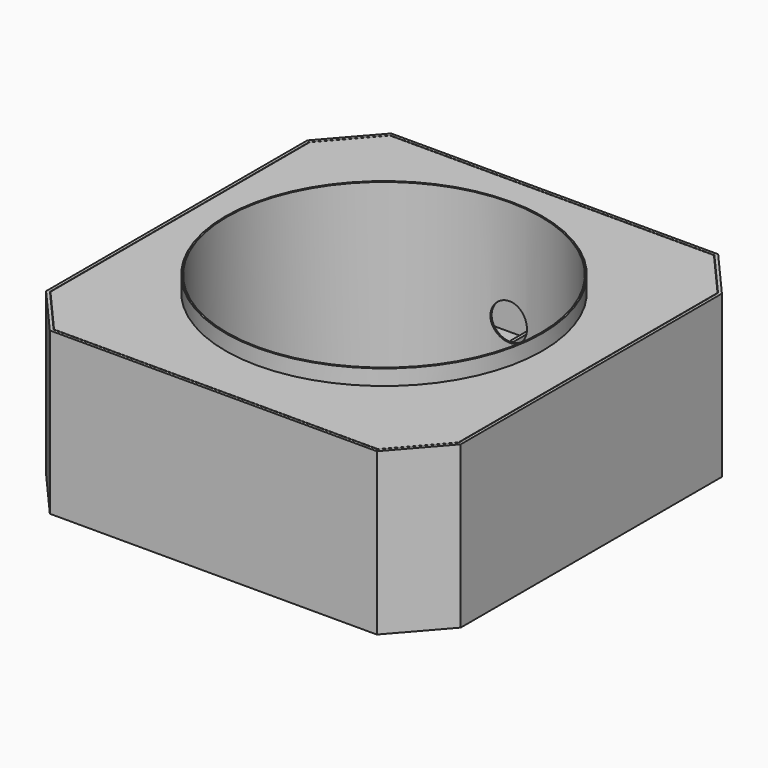
from build123d import *

# Parameters (mm, degrees)
F0_W      = 12.7
F0_H      = 1778
F3_W      = 3400
F3_H      = 3500
F3_R      = 1325
F4_DEPTH  = 25
F6_R      = 1321.9493342277
F7_DEPTH  = 25
F8_R      = 125
F9_DEPTH  = 25
F11_DEPTH = 25
F13_R     = 1320.7
F14_DEPTH = 25
F15_W     = 25.4
F15_H     = 421.8
F16_DEPTH = 1320
F15_W_2   = 371.8
F15_H_2   = 25.4
F21_DEPTH = 1345
F19_R     = 152.5
F22_DEPTH = 4000


with BuildPart() as f1:
    # F0 (on Front) → F1 (revolve)
    with BuildSketch(Plane.XZ):
        with Locations((1314.35, 889)):
            Rectangle(F0_W, F0_H)
    revolve(axis=Axis((0, 0, 45.3114323318), (0, 0, 1)))

    # F13 (on offset) → F14 (join)
    with BuildSketch(Plane.XY.offset(1624)):
        Polygon((1350, 1750), (-1350, 1750), (-1700, 1350), (-1700, -1350), (-1350, -1750), (1350, -1750), (1700, -1350), (1700, 1350), align=None)
        Circle(F13_R, mode=Mode.SUBTRACT)
    extrude(amount=F14_DEPTH)


with BuildPart() as f4:
    # F3 (on offset) → F4 (new body)
    with BuildSketch(Plane.XY.offset(304)):
        Rectangle(F3_W, F3_H)
        Circle(F3_R, mode=Mode.SUBTRACT)
    extrude(amount=F4_DEPTH)

    # F10 (on face) → F11 (cut)
    with BuildSketch(Plane.XY.offset(329)):
        Polygon((1700, 1350), (1700, 1750), (1350, 1750), align=None)
        Polygon((1350, -1750), (1700, -1750), (1700, -1350), align=None)
        Polygon((-1700, -1750), (-1350, -1750), (-1700, -1350), align=None)
        Polygon((-1700, 1350), (-1350, 1750), (-1700, 1750), align=None)
    extrude(amount=-F11_DEPTH, mode=Mode.SUBTRACT)


with BuildPart() as f7:
    # F6 (on offset) → F7 (new body)
    with BuildSketch(Plane.XY.offset(608)):
        Polygon((-1550, -1000), (-1300, -1400), (-950, -1600), (950, -1600), (1300, -1400), (1550, -1000), (1550, 1000), (1300, 1400), (950, 1600), (-950, 1600), (-1300, 1400), (-1550, 1000), align=None)
        Circle(F6_R, mode=Mode.SUBTRACT)
    extrude(amount=F7_DEPTH)

    # F8 (on face) → F9 (cut)
    with BuildSketch(Plane.XY.offset(633)):
        with Locations((-1380, 800)):
            Circle(F8_R)
        with Locations((-1380, -800)):
            Circle(F8_R)
        with Locations((1380, 800)):
            Circle(F8_R)
        with Locations((1380, -800)):
            Circle(F8_R)
        with Locations((-1000, 1245)):
            Circle(F8_R)
        with Locations((1000, 1245)):
            Circle(F8_R)
        with Locations((1000, -1245)):
            Circle(F8_R)
        with Locations((-1000, -1245)):
            Circle(F8_R)
    extrude(amount=-F9_DEPTH, mode=Mode.SUBTRACT)


with BuildPart() as f16:
    # F15 (on offset) → F16 (new body, through all)
    with BuildSketch(Plane.XY.offset(304)):
        with Locations((0, 1539.1)):
            Rectangle(F15_W, F15_H)
    extrude(amount=F16_DEPTH)


with BuildPart() as f16b:
    # F15 (on offset) → F16, piece 2 (new body, through all)
    with BuildSketch(Plane.XY.offset(304)):
        with Locations((0, -1539.1)):
            Rectangle(F15_W, F15_H)
    extrude(amount=F16_DEPTH)


with BuildPart() as f16c:
    # F15 (on offset) → F16, piece 3 (new body, through all)
    with BuildSketch(Plane.XY.offset(304)):
        with Locations((-1514.1, 0)):
            Rectangle(F15_W_2, F15_H_2)
    extrude(amount=F16_DEPTH)


with BuildPart() as f16d:
    # F15 (on offset) → F16, piece 4 (new body, through all)
    with BuildSketch(Plane.XY.offset(304)):
        with Locations((1514.1, 0)):
            Rectangle(F15_W_2, F15_H_2)
    extrude(amount=F16_DEPTH)


with BuildPart() as f4_1:
    add(f4.part)

    # F17: union F7, F16, F16b, F16d, F16c
    add(f7.part)
    add(f16.part)
    add(f16b.part)
    add(f16d.part)
    add(f16c.part)


with BuildPart() as f1_1:
    add(f1.part)

    # F18: union F4
    add(f4_1.part)

    # F19 (on Front) → F22 (cut, symmetric)
    with BuildSketch(Plane.XZ):
        with Locations((0, 900)):
            Circle(F19_R)
    extrude(amount=F22_DEPTH, both=True, mode=Mode.SUBTRACT)


with BuildPart() as f21:
    # F20 (on face) → F21 (new body, through all)
    with BuildSketch(Plane(origin=(0, 0, 304), x_dir=(1, 0, 0), z_dir=(0, 0, -1))):
        Polygon((-1728, -1360.5205832509), (-1362.7055103446, -1778), (1362.7055103446, -1778), (1728, -1360.5205832509), (1728, 1360.5205832509), (1362.7055103446, 1778), (-1362.7055103446, 1778), (-1728, 1360.5205832509), align=None)
        Polygon((1351.3613046798, -1753), (-1351.3613046798, -1753), (-1703, -1351.1272053483), (-1703, 1351.1272053483), (-1351.3613046798, 1753), (1351.3613046798, 1753), (1703, 1351.1272053483), (1703, -1351.1272053483), align=None, mode=Mode.SUBTRACT)
    extrude(amount=-F21_DEPTH)


solid = Compound([f1_1.part, f21.part])
